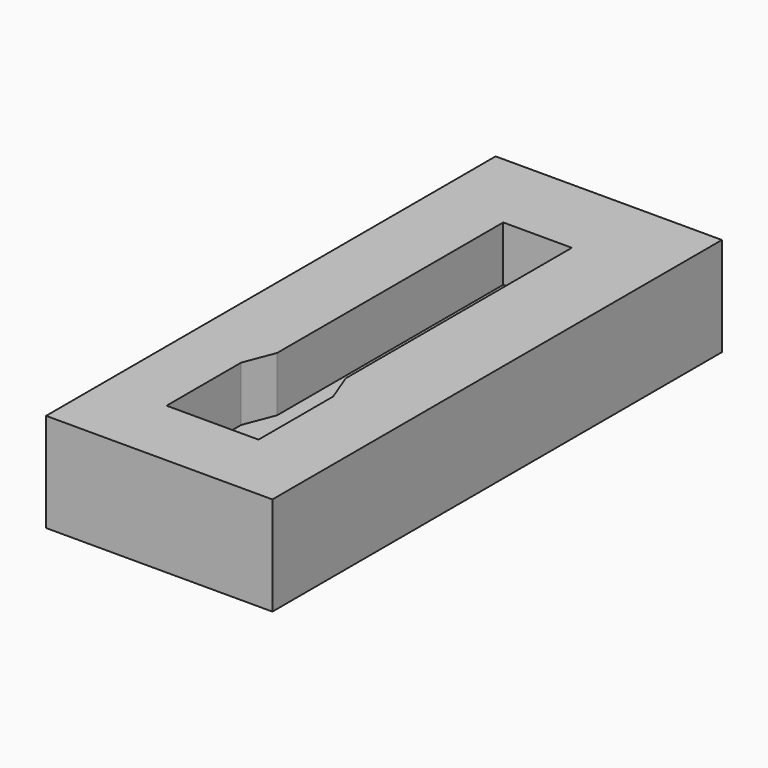
from build123d import *

# Parameters (mm, degrees)
SKETCH_W     = 41.231468
SKETCH_H     = 102.367744
PAD_DEPTH    = 18
POCKET_DEPTH = 10


with BuildPart() as part:
    # Sketch → Pad (new body)
    with BuildSketch(Plane.XY):
        with Locations((0.808199, 1.206909)):
            Rectangle(SKETCH_W, SKETCH_H)
    extrude(amount=PAD_DEPTH)

    # Sketch001 → Pocket (cut)
    with BuildSketch(Plane.XY.offset(18)):
        Polygon((-6.2428, 37.17), (-6.2428, -14.325), (-8.375, -19.83), (-8.375, -36.83), (8.375, -36.83), (8.375, -19.83), (6.2572, -14.325), (6.2572, 37.17), align=None)
    extrude(amount=-POCKET_DEPTH, mode=Mode.SUBTRACT)


solid = part.part
